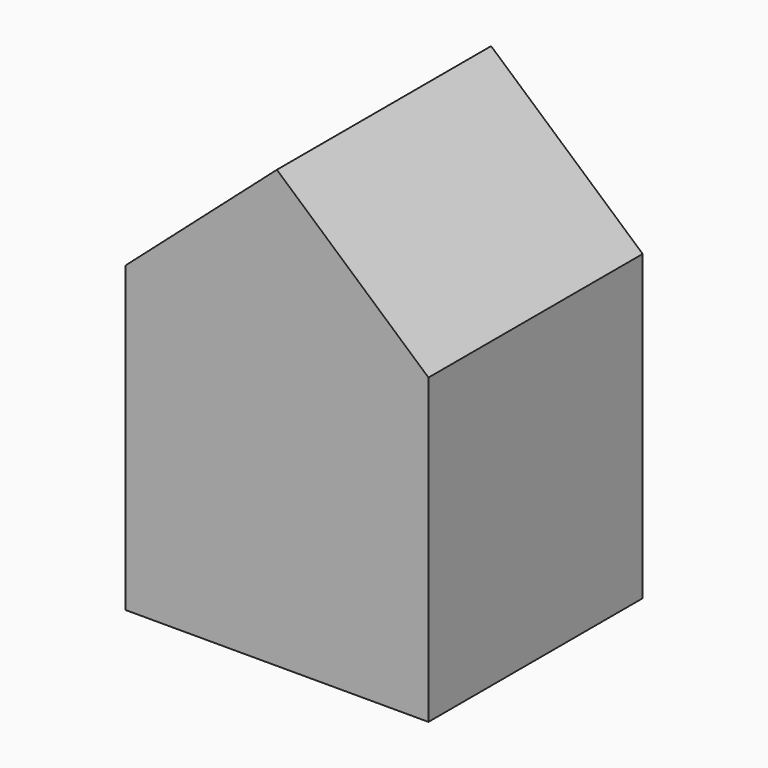
from build123d import *

# Parameters (mm, degrees)
F0_W     = 76.2
F0_H     = 76.2
F1_DEPTH = 67.31
F2_W     = 12.7
F2_H     = 25.4
F3_DEPTH = 10.922


with BuildPart() as f1:
    # F0 (on Front) → F1 (new body)
    with BuildSketch(Plane.XZ):
        Polygon((0, 76.133549), (-38.1, 42.532508), (38.1, 42.532508), align=None)
        with Locations((0, 4.432508)):
            Rectangle(F0_W, F0_H)
    extrude(amount=F1_DEPTH)

    # F2 (on face) → F3 (join)
    with BuildSketch(Plane.XZ.offset(67.31)):
        with Locations((0, -20.967492)):
            Rectangle(F2_W, F2_H)
    extrude(amount=-F3_DEPTH)


solid = f1.part
